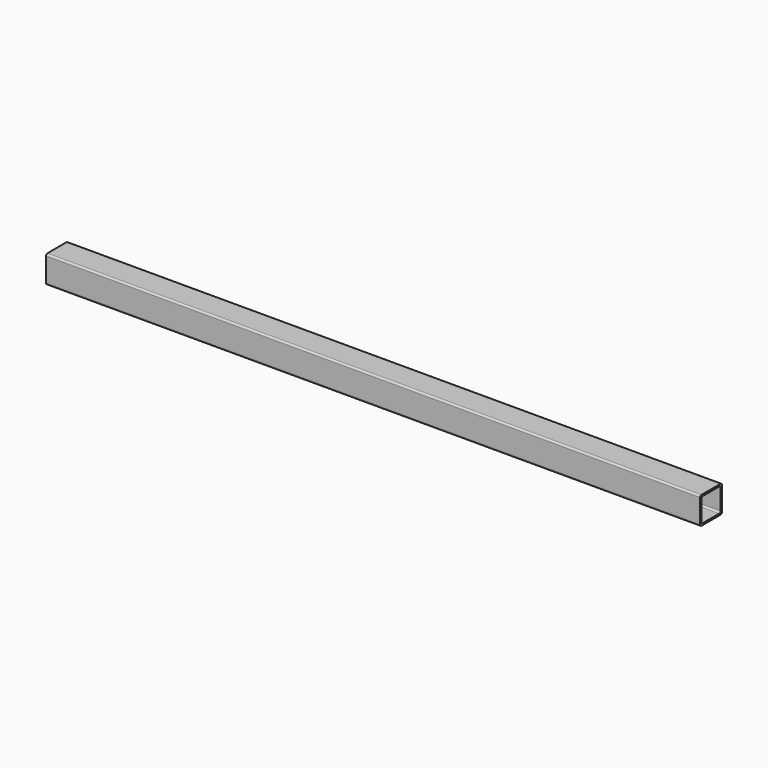
from build123d import *

# Parameters (mm, degrees)
F1_DEPTH = 609.6


with BuildPart() as f1:
    # F0 (on Right) → F1 (new body, symmetric)
    with BuildSketch(Plane.YZ):
        with BuildLine():
            Line((-22.225, -25.4), (22.225, -25.4))
            ThreePointArc((22.225, -25.4), (24.470064, -24.470064), (25.4, -22.225))
            Line((25.4, -22.225), (25.4, 22.225))
            ThreePointArc((25.4, 22.225), (24.470064, 24.470064), (22.225, 25.4))
            Line((22.225, 25.4), (-22.225, 25.4))
            ThreePointArc((-22.225, 25.4), (-24.470064, 24.470064), (-25.4, 22.225))
            Line((-25.4, 22.225), (-25.4, -22.225))
            ThreePointArc((-25.4, -22.225), (-24.470064, -24.470064), (-22.225, -25.4))
        make_face()
        with BuildLine():
            ThreePointArc((22.225, -19.05), (21.295064, -21.295064), (19.05, -22.225))
            Line((19.05, -22.225), (-19.05, -22.225))
            ThreePointArc((-19.05, -22.225), (-21.295064, -21.295064), (-22.225, -19.05))
            Line((-22.225, -19.05), (-22.225, 19.05))
            ThreePointArc((-22.225, 19.05), (-21.295064, 21.295064), (-19.05, 22.225))
            Line((-19.05, 22.225), (19.05, 22.225))
            ThreePointArc((19.05, 22.225), (21.295064, 21.295064), (22.225, 19.05))
            Line((22.225, 19.05), (22.225, -19.05))
        make_face(mode=Mode.SUBTRACT)
    extrude(amount=F1_DEPTH, both=True)


solid = f1.part
